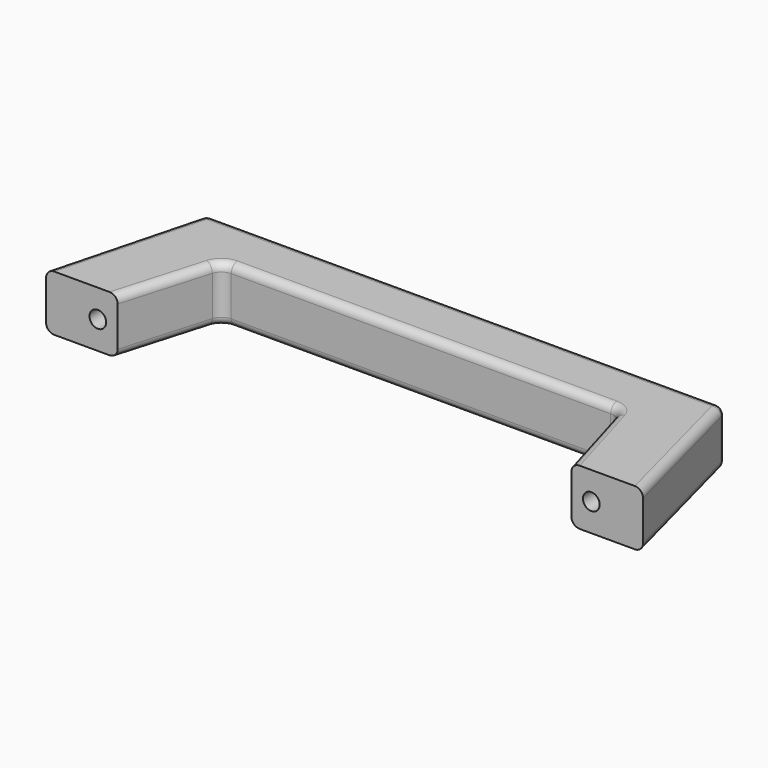
from build123d import *

# Parameters (mm, degrees)
F1_DEPTH = 14
F2_R     = 2.1
F3_DEPTH = 14
F4_R     = 2
F5_R     = 3.1
F6_R     = 2


with BuildPart() as f1:
    # F0 (on Top) → F1 (new body)
    with BuildSketch(Plane.XY):
        Polygon((-65, 18.5), (-75, -19.5), (-57, -19.5), (-50, 4.5), (0, 4.5), (50, 4.5), (57, -19.5), (75, -19.5), (65, 18.5), (0, 18.5), align=None)
    extrude(amount=F1_DEPTH)

    # F2 (on face) → F3 (cut)
    with BuildSketch(Plane.XZ.offset(19.5)):
        with Locations((-62, 7)):
            Circle(F2_R)
        with Locations((62, 7)):
            Circle(F2_R)
    extrude(amount=-F3_DEPTH, mode=Mode.SUBTRACT)

    # F4
    f4_edges = [f1.edges().sort_by_distance(p)[0] for p in [
        (65, 18.5, 7),
        (-65, 18.5, 7),
    ]]
    fillet(f4_edges, radius=F4_R)

    # F5
    f5_edges = [f1.edges().sort_by_distance(p)[0] for p in [
        (50, 4.5, 7),
        (-50, 4.5, 7),
    ]]
    fillet(f5_edges, radius=F5_R)

    # F6
    f6_edges = [f1.edges().sort_by_distance(p)[0] for p in [
        (0, 18.5, 0),
        (-64.679293, 18.083978, 0),
        (-70.196186, -1.245507, 0),
        (64.679293, 18.083978, 0),
        (70.196186, -1.245507, 0),
        (53.8255, -8.616, 0),
        (49.535, 3.88, 0),
        (0, 4.5, 0),
        (-49.535, 3.88, 0),
        (-53.8255, -8.616, 0),
        (-70.196186, -1.245507, 14),
        (-64.679293, 18.083978, 14),
        (0, 18.5, 14),
        (64.679293, 18.083978, 14),
        (70.196186, -1.245507, 14),
        (49.535, 3.88, 14),
        (0, 4.5, 14),
        (53.8255, -8.616, 14),
        (-49.535, 3.88, 14),
        (-53.8255, -8.616, 14),
    ]]
    fillet(f6_edges, radius=F6_R)


solid = f1.part
